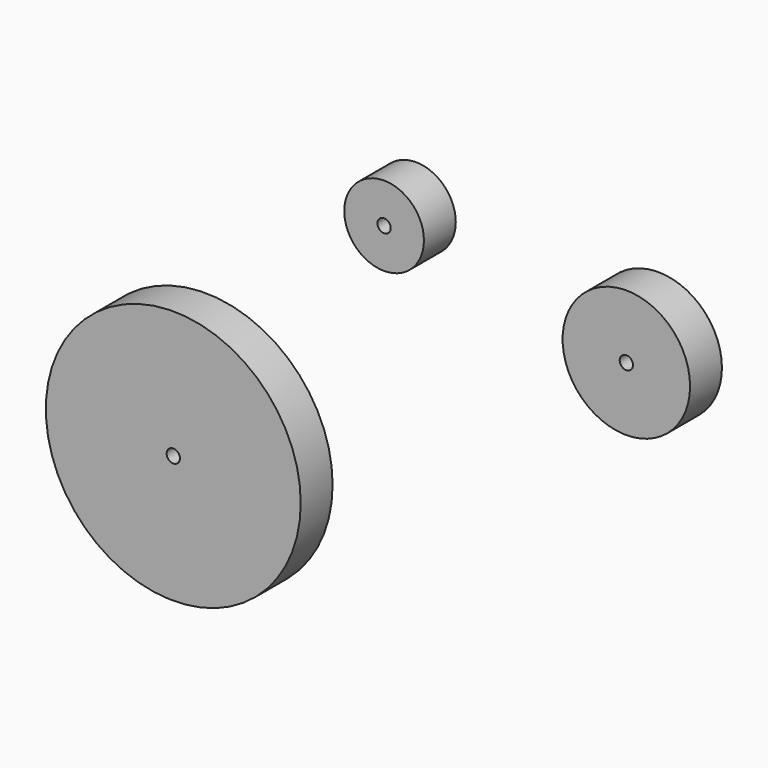
from build123d import *

# Parameters (mm, degrees)
F0_R     = 9.525
F1_DEPTH = 9.525
F2_R     = 15.24
F2_R_2   = 1.5875
F2_R_3   = 30.48
F3_DEPTH = 9.525
F4_R     = 1.5875
F5_DEPTH = 25.4


with BuildPart() as f1:
    # F0 (on Front) → F1 (new body)
    with BuildSketch(Plane.XZ):
        with Locations((-45.754869, 21.073818)):
            Circle(F0_R)
    extrude(amount=F1_DEPTH)

    # F4 (on face) → F5 (cut)
    with BuildSketch(Plane.XZ.offset(9.525)):
        with Locations((-45.754869, 21.073818)):
            Circle(F4_R)
    extrude(amount=-F5_DEPTH, mode=Mode.SUBTRACT)


with BuildPart() as f3:
    # F2 (on Front) → F3 (new body)
    with BuildSketch(Plane.XZ):
        with Locations((12.180932, 11.074892)):
            Circle(F2_R)
        with Locations((12.180932, 11.074892)):
            Circle(F2_R_2, mode=Mode.SUBTRACT)
        with Locations((-96.169628, -43.797147)):
            Circle(F2_R_3)
        with Locations((-96.169628, -43.797147)):
            Circle(F2_R_2, mode=Mode.SUBTRACT)
    extrude(amount=F3_DEPTH)


solid = Compound([f1.part, f3.part])
